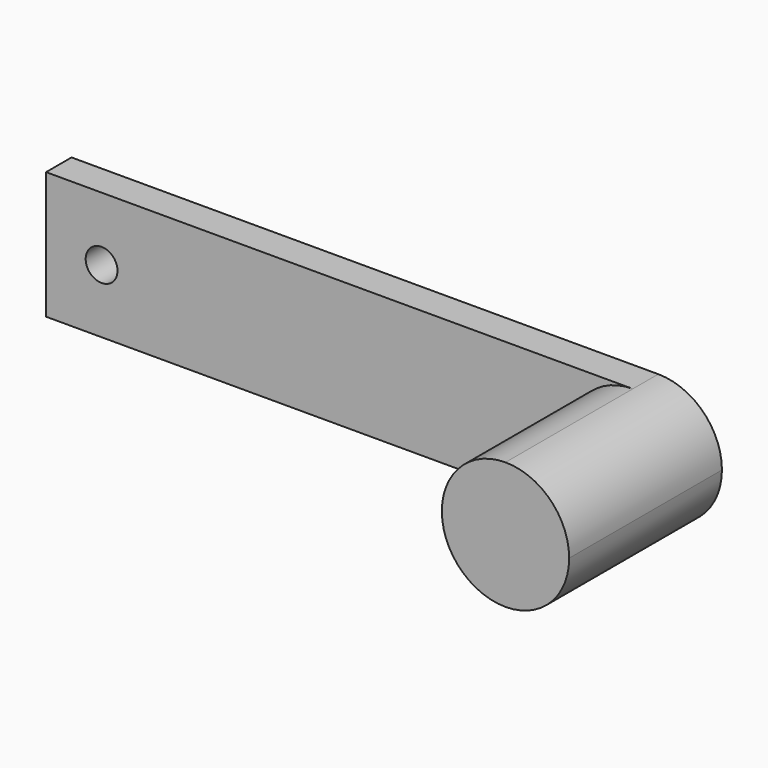
from build123d import *

# Parameters (mm, degrees)
F0_R     = 3.175
F1_DEPTH = 6.35
F2_DEPTH = 38.1


with BuildPart() as f1:
    # F0 (on Front) → F1 (new body)
    with BuildSketch(Plane.XZ):
        with BuildLine():
            Line((-63.5, -12.7), (53.568933, -12.7))
            ThreePointArc((53.568933, -12.7), (40.868933, 0), (53.568933, 12.7))
            Line((53.568933, 12.7), (-63.5, 12.7))
            Line((-63.5, 12.7), (-63.5, -12.7))
        make_face()
        with Locations((-52.424293, 0)):
            Circle(F0_R, mode=Mode.SUBTRACT)
    extrude(amount=F1_DEPTH)

    # F0 (on Front) → F2 (join)
    with BuildSketch(Plane.XZ):
        with BuildLine():
            ThreePointArc((53.568933, 12.7), (40.868933, 0), (53.568933, -12.7))
            ThreePointArc((53.568933, -12.7), (62.549189, -8.980256), (66.268933, 0))
            ThreePointArc((66.268933, 0), (62.549189, 8.980256), (53.568933, 12.7))
        make_face()
    extrude(amount=F2_DEPTH)


solid = f1.part
